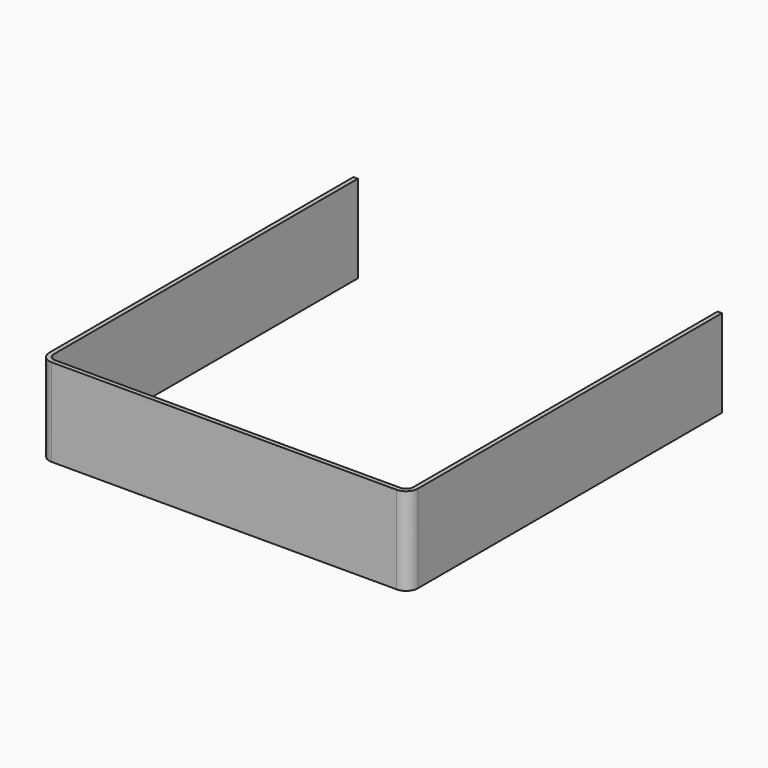
from build123d import *

# Parameters (mm, degrees)
SKETCH005_W    = 252
SKETCH005_H    = 268
PAD005_DEPTH   = 60
FILLET003_R    = 8
THICKNESS001_T = -3


with BuildPart() as part:
    # Sketch005 → Pad005 (new body)
    with BuildSketch(Plane.XY):
        with Locations((0, -134)):
            Rectangle(SKETCH005_W, SKETCH005_H)
    extrude(amount=PAD005_DEPTH)

    # Fillet003
    fillet003_edges = [part.edges().sort_by_distance(p)[0] for p in [
        (126, -268, 30),
        (-126, -268, 30),
    ]]
    fillet(fillet003_edges, radius=FILLET003_R)

    # Thickness001
    thickness001_openings = [part.faces().sort_by_distance(p)[0] for p in [
        (0, -133.946203, 60),
        (0, 0, 30),
        (0, -133.946203, 0),
    ]]
    offset(amount=THICKNESS001_T, openings=thickness001_openings)


solid = part.part
